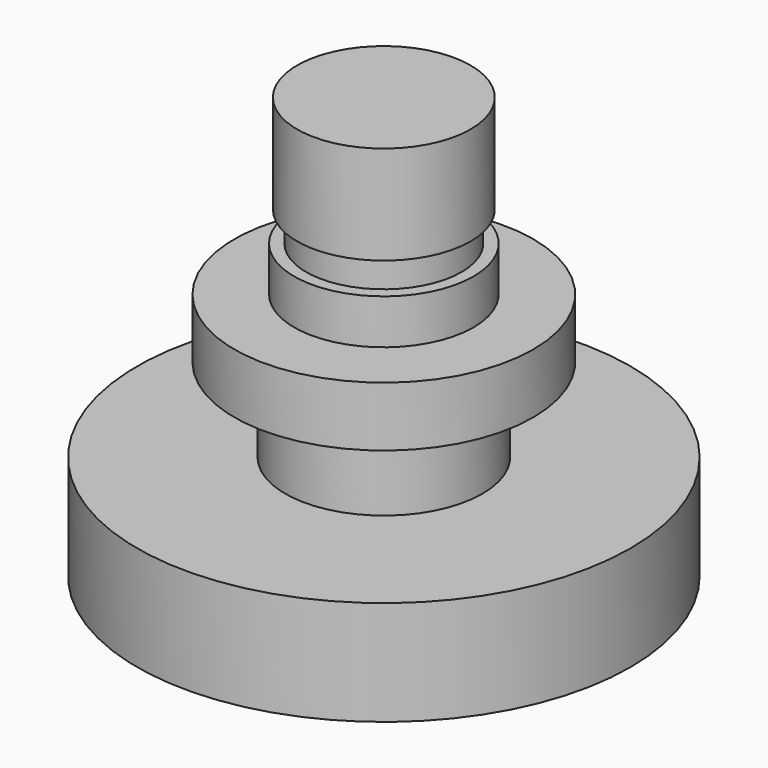
from build123d import *

# Parameters (mm, degrees)
F0_R      = 8.25
F0_R_2    = 6
F0_R_3    = 3.3
F1_DEPTH  = 3.5
F2_DEPTH  = 6.3
F3_DEPTH  = 1.1
F4_R      = 3
F5_DEPTH  = 2.7
F6_R      = 5
F6_R_2    = 3.3
F6_R_3    = 3
F7_DEPTH  = 2
F8_DEPTH  = 3.5
F9_R      = 2.6
F10_DEPTH = 1
F11_R     = 2.9
F12_DEPTH = 3.3


with BuildPart() as f1:
    # F0 (on Top) → F1 (new body)
    with BuildSketch(Plane.XY):
        Circle(F0_R)
        Circle(F0_R_2, mode=Mode.SUBTRACT)
        Circle(F0_R_2)
        Circle(F0_R_3, mode=Mode.SUBTRACT)
    extrude(amount=F1_DEPTH)

    # F0 (on Top) → F2 (join)
    with BuildSketch(Plane.XY):
        Circle(F0_R_3)
    extrude(amount=F2_DEPTH)

    # F0 (on Top) → F3 (join)
    with BuildSketch(Plane.XY):
        Circle(F0_R_2)
        Circle(F0_R_3, mode=Mode.SUBTRACT)
        Circle(F0_R_3)
    extrude(amount=-F3_DEPTH)

    # F4 (on face) → F5 (cut)
    with BuildSketch(Plane(origin=(0, 0, -1.1), x_dir=(1, 0, 0), z_dir=(0, 0, -1))):
        Circle(F4_R)
    extrude(amount=-F5_DEPTH, mode=Mode.SUBTRACT)

    # F6 (on face) → F8 (join)
    with BuildSketch(Plane.XY.offset(6.3)):
        Circle(F6_R_3)
    extrude(amount=F8_DEPTH)

    # F9 (on face) → F10 (join)
    with BuildSketch(Plane.XY.offset(9.8)):
        Circle(F9_R)
    extrude(amount=F10_DEPTH)

    # F11 (on face) → F12 (join)
    with BuildSketch(Plane.XY.offset(10.8)):
        Circle(F11_R)
    extrude(amount=F12_DEPTH)


with BuildPart() as f7:
    # F6 (on face) → F7 (new body)
    with BuildSketch(Plane.XY.offset(6.3)):
        Circle(F6_R)
        Circle(F6_R_2, mode=Mode.SUBTRACT)
        Circle(F6_R_2)
        Circle(F6_R_3, mode=Mode.SUBTRACT)
    extrude(amount=F7_DEPTH)


solid = Compound([f1.part, f7.part])
